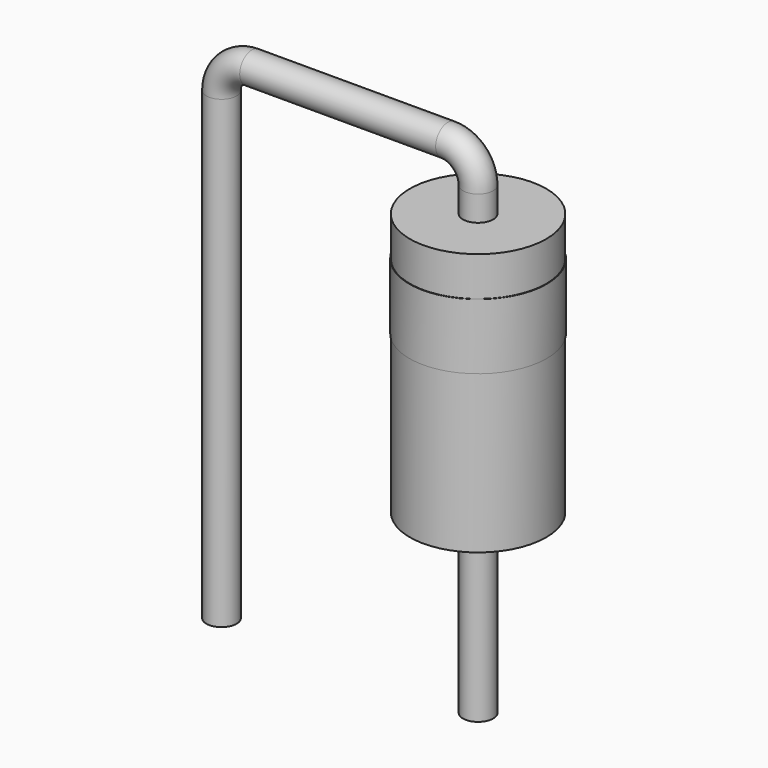
from build123d import *

# Parameters (mm, degrees)
SKETCH001_R = 0.3
SKETCH002_W = 1.35
SKETCH002_H = 5.2
SKETCH003_W = 1.36
SKETCH003_H = 1.3


with BuildPart() as sweep_body:
    # Sweep: sweep along a path in Sketch
    with BuildLine(Plane.XZ) as sweep_path:
        Line((0, -3), (0, 6.2))
        ThreePointArc((0, 6.2), (0.175736, 6.624264), (0.6, 6.8))
        Line((0.6, 6.8), (4.48, 6.8))
        ThreePointArc((4.48, 6.8), (4.904264, 6.624264), (5.08, 6.2))
        Line((5.08, 6.2), (5.08, -3))
    # Sketch001 → Sweep (sweep)
    with BuildSketch(Plane.XY):
        Circle(SKETCH001_R)
    sweep(path=sweep_path.line)


with BuildPart() as revolution:
    # Sketch002 → Revolution (revolve)
    with BuildSketch(Plane.XZ):
        with Locations((5.755, 3.1)):
            Rectangle(SKETCH002_W, SKETCH002_H)
    revolve(axis=Axis((5.08, 0, 0.5), (0, 0, 1)))


with BuildPart() as revolution001:
    # Sketch003 → Revolution001 (revolve)
    with BuildSketch(Plane.XZ):
        with Locations((5.76, 4.27)):
            Rectangle(SKETCH003_W, SKETCH003_H)
    revolve(axis=Axis((5.08, 0, 3.62), (0, 0, 1)))


solid = Compound([sweep_body.part, revolution.part, revolution001.part])
